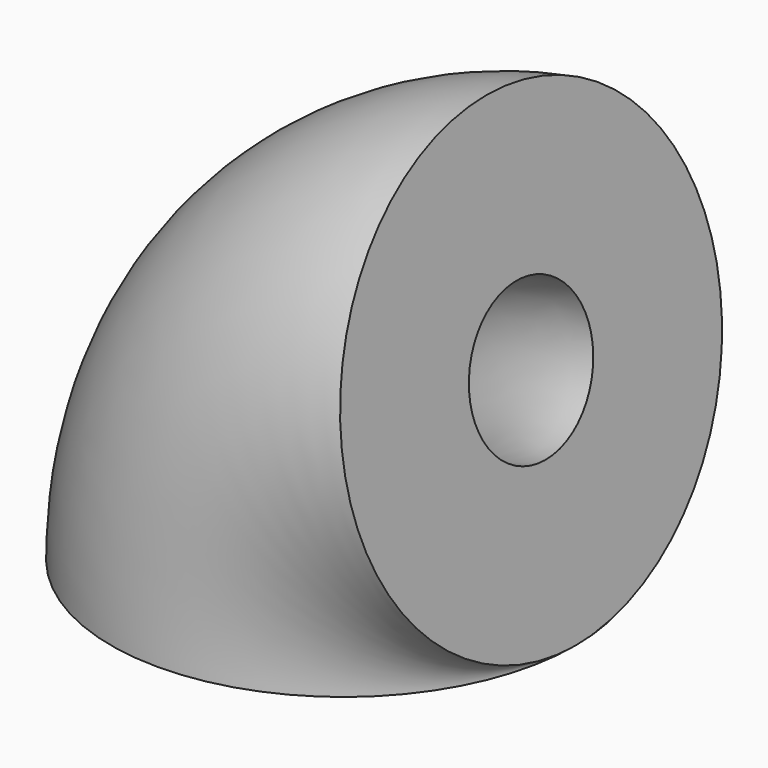
from build123d import *

# Parameters (mm, degrees)
F1_R = 17.8598257548
F4_R = 5.8157707495


with BuildPart() as f3:
    # F3: sweep along a path in F2
    with BuildLine(Plane.XZ) as f3_path:
        ThreePointArc((0, 0), (4.0734471715, 11.3538161669), (14.4356550081, 17.5285033785))
    # F1 (on Top) → F3 (sweep)
    with BuildSketch(Plane.XY):
        Circle(F1_R)
    sweep(path=f3_path.line)

    # F5: sweep along a path in F2
    with BuildLine(Plane.XZ) as f5_path:
        ThreePointArc((0, 0), (4.0734471715, 11.3538161669), (14.4356550081, 17.5285033785))
    # F4 (on Top) → F5 (sweep, cut)
    with BuildSketch(Plane.XY):
        Circle(F4_R)
    sweep(path=f5_path.line, mode=Mode.SUBTRACT)


solid = f3.part
